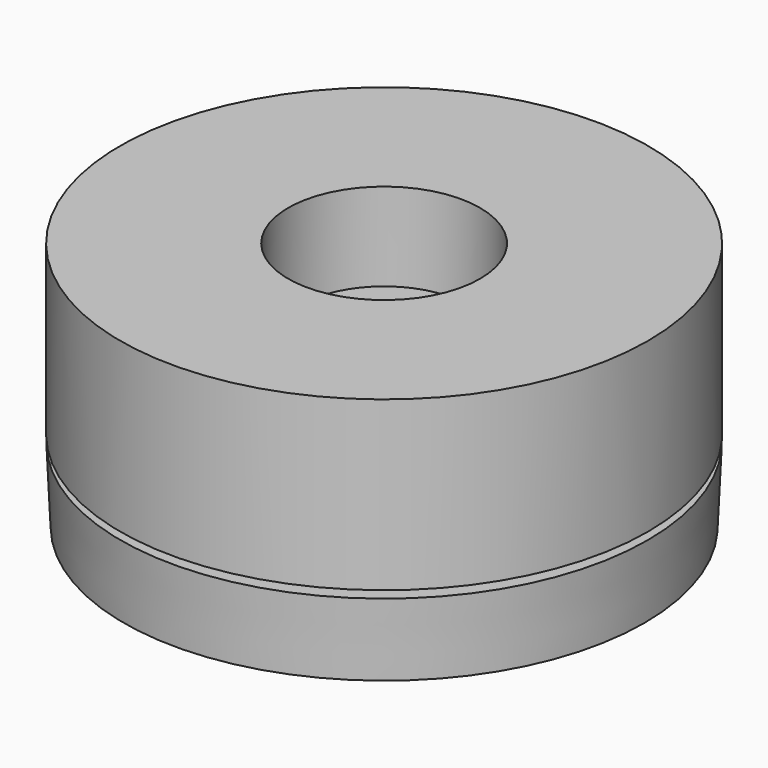
from build123d import *

# Parameters (mm, degrees)
F0_R      = 11
F0_R_2    = 4
F1_DEPTH  = 7
F2_R      = 40
F2_R_2    = 11.5
F3_DEPTH  = 7
F4_R      = 11.5
F5_DEPTH  = 25
F7_R      = 3.5
F8_DEPTH  = 3.6
F11_DEPTH = 4.81
F13_DEPTH = 1


with BuildPart() as f1:
    # F0 (on Top) → F1 (new body)
    with BuildSketch(Plane.XY):
        Circle(F0_R)
        Circle(F0_R_2, mode=Mode.SUBTRACT)
    extrude(amount=F1_DEPTH)


with BuildPart() as f3:
    # F2 (on Top) → F3 (new body)
    with BuildSketch(Plane.XY):
        Circle(F2_R)
        Circle(F2_R_2, mode=Mode.SUBTRACT)
    extrude(amount=F3_DEPTH)

    # F4 (on face) → F5 (cut)
    with BuildSketch(Plane.XY.offset(7)):
        with Locations((0, 26.6484025971)):
            Circle(F4_R)
    extrude(amount=-F5_DEPTH, mode=Mode.SUBTRACT)


with BuildPart() as f8:
    # F7 (on Top) → F8 (new body)
    with BuildSketch(Plane.XY):
        Circle(F7_R)
    extrude(amount=F8_DEPTH)


with BuildPart() as f10:
    # F9 (on Front) → F10 (revolve)
    with BuildSketch(Plane.XZ):
        Polygon((10.9253358096, -2.6480713859), (10.9253358096, -0.2235482534), (0, 0), (0, -1.2938332511), (3.6954516545, -1.2719907099), (7.2557874955, -1.5996290604), (9.0250344947, -1.8180545885), (10.1826898754, -2.276748186), align=None)
    revolve(axis=Axis((0, 0, -0.6469166256), (0, 0, -1)))


with BuildPart() as f11:
    # F11 (new): a face of the model
    f11_faces = [f8.part.faces().sort_by_distance(p)[0] for p in [
        (0, 0, 3.6),
    ]]
    extrude(f11_faces, amount=-F11_DEPTH)


with BuildPart() as f8_1:
    add(f8.part)

    # F13 (add): a face of the model
    f13_faces = [f8_1.faces().sort_by_distance(p)[0] for p in [
        (0, 0, 0),
    ]]
    extrude(f13_faces, amount=F13_DEPTH)

    # F14 (on Front) → F15 (revolve)
    with BuildSketch(Plane.XZ):
        Polygon((10.8525427058, -3.3965536859), (10.9901418909, -0.3143260838), (0, -0.3143260838), (0, -1.1674426496), (3.3946528565, -1.1674426496), (5.0183264539, -1.3876017183), (7.0823179558, -2.0205592737), align=None)
    revolve(axis=Axis((0, 0, -0.7408843667), (0, 0, -1)))


solid = Compound([f1.part, f8_1.part])
